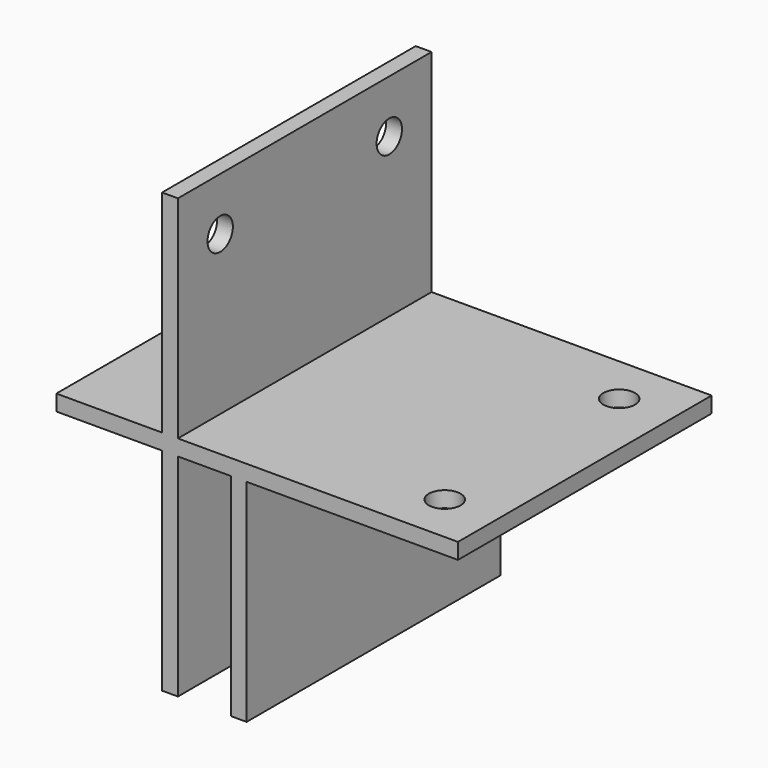
from build123d import *

# Parameters (mm, degrees)
F0_W          = 3
F0_H          = 40
F0_H_2        = 3
F0_W_2        = 20
F0_W_3        = 10
F0_W_4        = 7
F0_W_5        = 33
F1_DEPTH      = 30
F1_DEPTH_BACK = 30
F3_D          = 6
F3_DEPTH      = 12
F3_TIP        = 1.8025818571
F5_D          = 6
F5_DEPTH      = 12
F5_TIP        = 1.8025818571


with BuildPart() as f1:
    # F0 (on Front) → F1 (new body, two sides)
    with BuildSketch(Plane.XZ) as f1_sk:
        with Locations((0, 21.5)):
            Rectangle(F0_W, F0_H)
        Rectangle(F0_W, F0_H_2)
        with Locations((-11.5, 0)):
            Rectangle(F0_W_2, F0_H_2)
        with Locations((6.5, 0)):
            Rectangle(F0_W_3, F0_H_2)
        with Locations((0, -21.5)):
            Rectangle(F0_W, F0_H)
        with Locations((13, 0)):
            Rectangle(F0_W, F0_H_2)
        Polygon((14.5, -1.5), (11.5, -1.5), (11.5, -8.7749995426), (11.5, -41.5), (14.5, -41.5), (14.5, -8.7749995426), align=None)
        with Locations((18, 0)):
            Rectangle(F0_W_4, F0_H_2)
        with Locations((38, 0)):
            Rectangle(F0_W_5, F0_H_2)
    extrude(amount=F1_DEPTH)
    extrude(f1_sk.sketch, amount=-F1_DEPTH_BACK)

    # F3
    with Locations(Plane.YZ.offset(1.5)):
        with Locations((-20, 31.5), (20, 31.5)):
            Hole(F3_D / 2, depth=F3_DEPTH)
            with Locations((0, 0, -(F3_DEPTH + F3_TIP / 2))):  # 118° drill point
                Cone(0, F3_D / 2, F3_TIP, mode=Mode.SUBTRACT)

    # F5
    with Locations(Plane.XY.offset(1.5)):
        with Locations((44.5, 20.6381995231), (44.5, -20.6381995231)):
            Hole(F5_D / 2, depth=F5_DEPTH)
            with Locations((0, 0, -(F5_DEPTH + F5_TIP / 2))):  # 118° drill point
                Cone(0, F5_D / 2, F5_TIP, mode=Mode.SUBTRACT)


solid = f1.part
